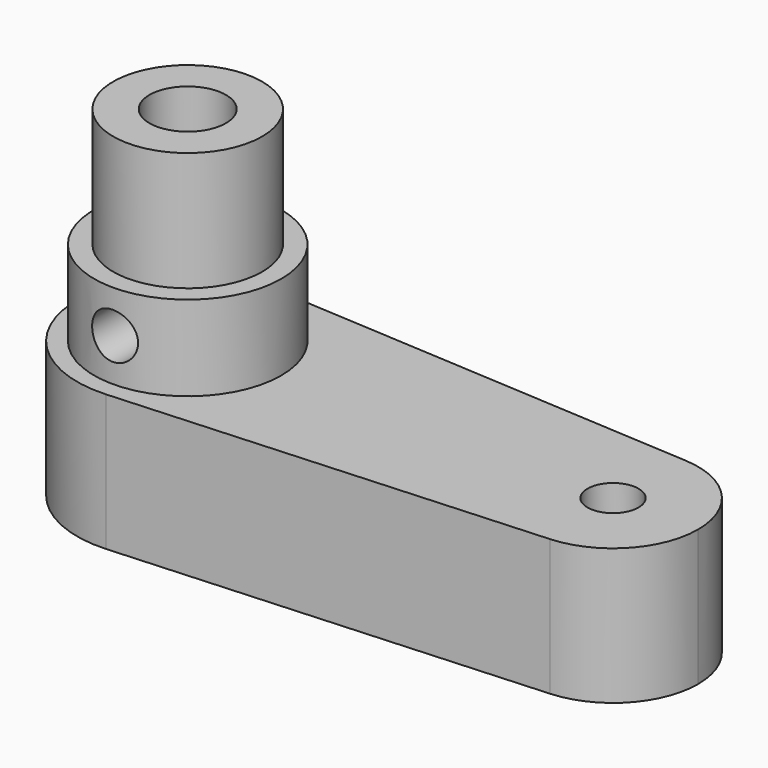
from build123d import *

# Parameters (mm, degrees)
F1_DEPTH        = 16
F2_R            = 11
F3_DEPTH        = 26
F4_R            = 8.75
F5_DEPTH        = 40
F7_D            = 9
F7_DEPTH        = 35
F7_TIP          = 2.7038727856
F8_R            = 2.7
F9_DEPTH        = 12.5
F11_D           = 3
F11_CBORE_D     = 6
F11_CBORE_DEPTH = 5


with BuildPart() as f1:
    # F0 (on Top) → F1 (new body)
    with BuildSketch(Plane.XY):
        with BuildLine():
            ThreePointArc((0.78, -12.976578902), (9.4641428561, -8.9123509805), (13, 0))
            ThreePointArc((13, 0), (9.4641428561, 8.9123509805), (0.78, 12.976578902))
            ThreePointArc((0.78, 12.976578902), (-13, 0), (0.78, -12.976578902))
        make_face()
        with BuildLine():
            ThreePointArc((0.78, 12.976578902), (9.4641428561, 8.9123509805), (13, 0))
            ThreePointArc((13, 0), (9.4641428561, -8.9123509805), (0.78, -12.976578902))
            Line((0.78, -12.976578902), (50.6, -9.9819837708))
            ThreePointArc((50.6, -9.9819837708), (40, 0), (50.6, 9.9819837708))
            Line((50.6, 9.9819837708), (0.78, 12.976578902))
        make_face()
        with BuildLine():
            ThreePointArc((60, 0), (57.2801098893, 6.8556546004), (50.6, 9.9819837708))
            ThreePointArc((50.6, 9.9819837708), (40, 0), (50.6, -9.9819837708))
            ThreePointArc((50.6, -9.9819837708), (57.2801098893, -6.8556546004), (60, 0))
        make_face()
    extrude(amount=F1_DEPTH)

    # F2 (on Top) → F3 (join)
    with BuildSketch(Plane.XY):
        Circle(F2_R)
    extrude(amount=F3_DEPTH)

    # F4 (on Top) → F5 (join)
    with BuildSketch(Plane.XY):
        Circle(F4_R)
    extrude(amount=F5_DEPTH)

    # F7
    with Locations(Plane.XY.offset(40)):
        with Locations((0, 0)):
            Hole(F7_D / 2, depth=F7_DEPTH)
            with Locations((0, 0, -(F7_DEPTH + F7_TIP / 2))):  # 118° drill point
                Cone(0, F7_D / 2, F7_TIP, mode=Mode.SUBTRACT)

    # F8 (on Front) → F9 (cut, symmetric)
    with BuildSketch(Plane.XZ):
        with Locations((0, 21)):
            Circle(F8_R)
    extrude(amount=F9_DEPTH, both=True, mode=Mode.SUBTRACT)

    # F11 (through all)
    with Locations(Plane.XY.offset(16)):
        with Locations((50, 0)):
            CounterBoreHole(F11_D / 2, F11_CBORE_D / 2, F11_CBORE_DEPTH)


solid = f1.part
